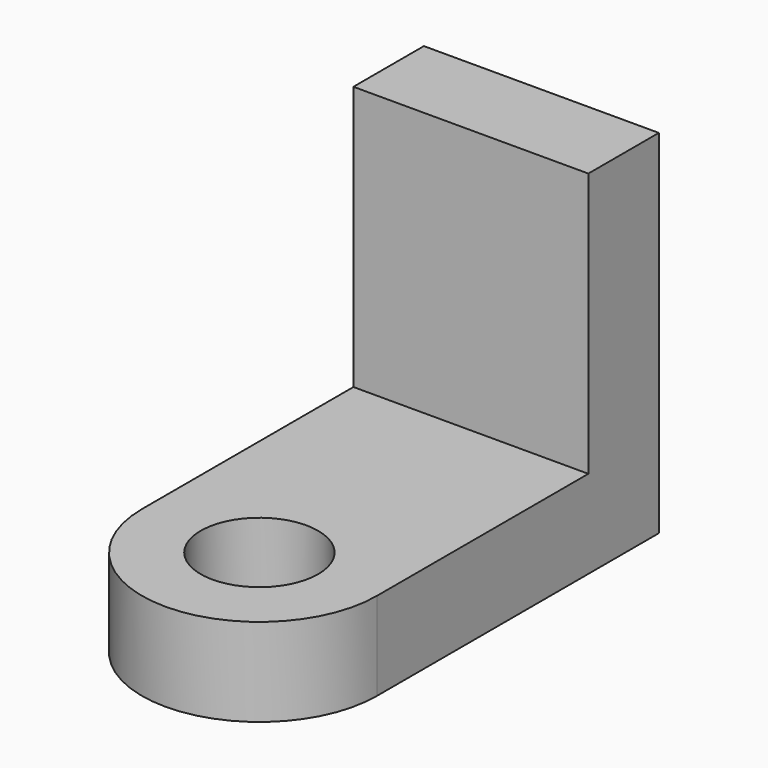
from build123d import *

# Parameters (mm, degrees)
F1_DEPTH = 150
F2_W     = 400
F2_H     = 150
F3_DEPTH = 450


with BuildPart() as f1:
    # F0 (on Top) → F1 (new body)
    with BuildSketch(Plane.XY):
        with BuildLine():
            ThreePointArc((-100, -300), (0, -200), (100, -300))
            Line((100, -300), (200, -300))
            Line((200, -300), (200, 300))
            Line((200, 300), (-200, 300))
            Line((-200, 300), (-200, -300))
            Line((-200, -300), (-100, -300))
        make_face()
        with BuildLine():
            Line((200, -300), (100, -300))
            ThreePointArc((100, -300), (0, -400), (-100, -300))
            Line((-100, -300), (-200, -300))
            ThreePointArc((-200, -300), (0, -500), (200, -300))
        make_face()
    extrude(amount=F1_DEPTH)

    # F2 (on face) → F3 (join)
    with BuildSketch(Plane.XY.offset(150)):
        with Locations((0, 225)):
            Rectangle(F2_W, F2_H)
    extrude(amount=F3_DEPTH)


solid = f1.part
